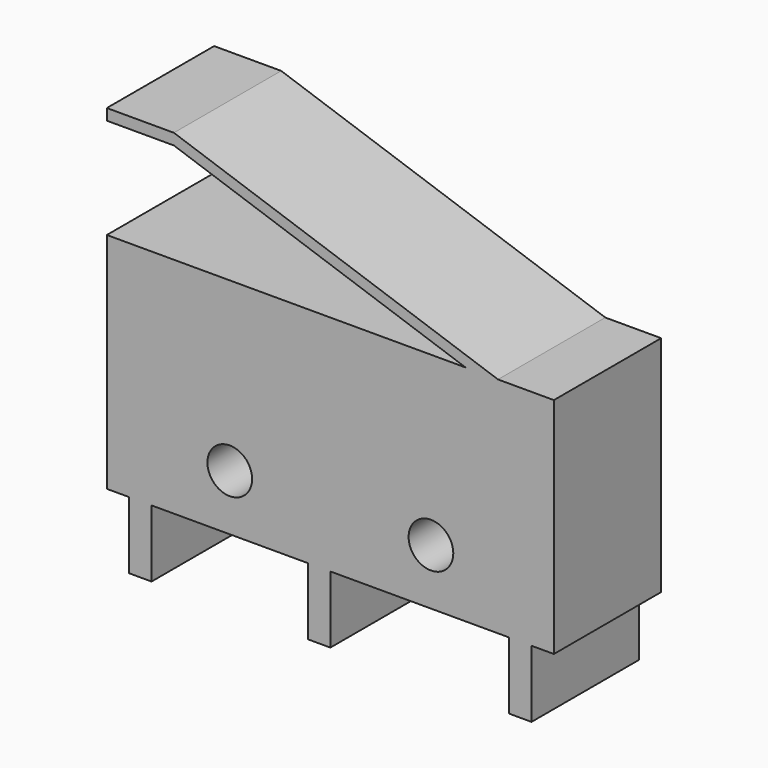
from build123d import *

# Parameters (mm, degrees)
SKETCH_R  = 1
PAD_DEPTH = 6


with BuildPart() as part:
    # Sketch → Pad (new body)
    with BuildSketch(Plane.XZ):
        Polygon((0, 13), (0, 3), (1, 3), (1, 0), (2, 0), (2, 3), (9, 3), (9, 0), (10, 0), (10, 3), (18, 3), (18, 0), (19, 0), (19, 3), (20, 3), (20, 13), (17.5, 13), (3, 18), (0, 18), (0, 17.5), (3, 17.5), (16.05, 13), align=None)
        with Locations((5.5, 5.5)):
            Circle(SKETCH_R, mode=Mode.SUBTRACT)
        with Locations((14.5, 5.5)):
            Circle(SKETCH_R, mode=Mode.SUBTRACT)
    extrude(amount=PAD_DEPTH)


solid = part.part
